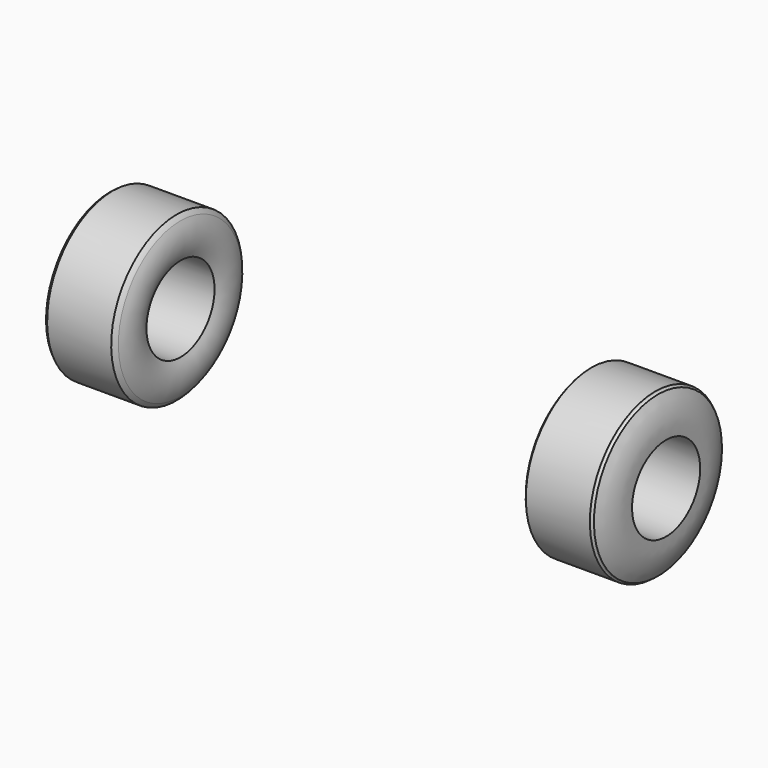
from build123d import *


with BuildPart() as f2:
    # F1 (on offset) → F2 (revolve)
    with BuildSketch(Plane.XZ.offset(1120)):
        with BuildLine():
            ThreePointArc((790.100599, 582.407986), (774.292436, 514.992638), (789.20722, 447.374027))
            Line((789.20722, 447.374027), (1094.00722, 447.374027))
            ThreePointArc((1094.00722, 447.374027), (1089.272064, 522.372925), (1062.374115, 592.54241))
            ThreePointArc((1062.374115, 592.54241), (1055.782163, 593.933952), (1052.423036, 599.774027))
            Line((1052.423036, 599.774027), (803.97817, 599.774027))
            ThreePointArc((803.97817, 599.774027), (796.743736, 591.327266), (790.100599, 582.407986))
        make_face()
    revolve(axis=Axis((907.711014, -1120, 282.274027), (1, 0, 0)))


with BuildPart() as f3_1:
    # F3: instance of F2
    add(f2.part.mirror(Plane.YZ))


solid = Compound([f2.part, f3_1.part])
